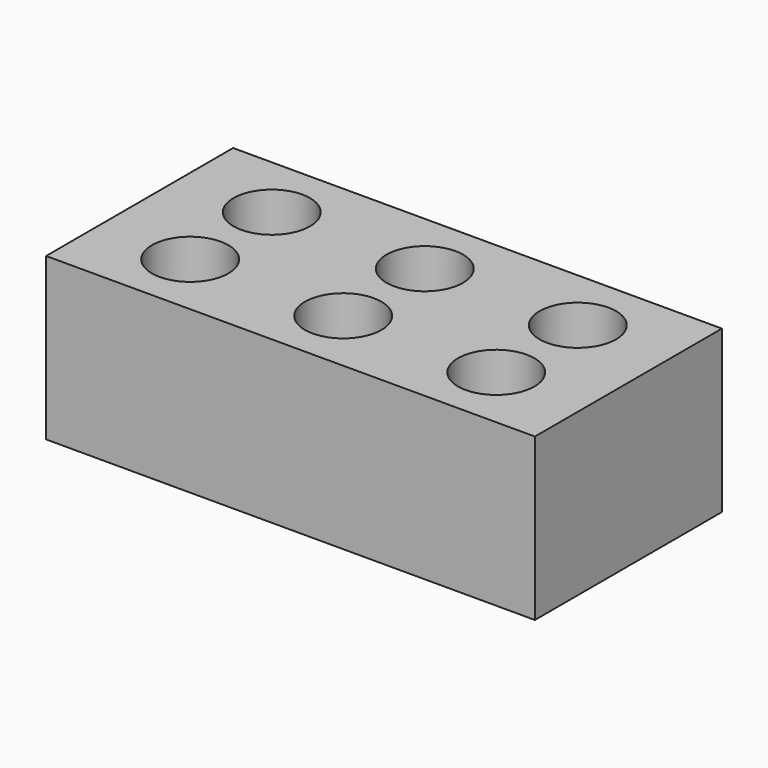
from build123d import *

# Parameters (mm, degrees)
CYLINDER002_R     = 18
CYLINDER002_DEPTH = 76
CYLINDER003_R     = 18
CYLINDER003_DEPTH = 76
CYLINDER004_R     = 18
CYLINDER004_DEPTH = 76
CYLINDER005_R     = 18
CYLINDER005_DEPTH = 76
CYLINDER_R        = 18
CYLINDER_DEPTH    = 76
CYLINDER001_R     = 18
CYLINDER001_DEPTH = 76
BOX_W             = 230
BOX_H             = 110
BOX_DEPTH         = 76


with BuildPart() as cilindro002:
    # Cylinder002 → Cylinder002 (new body)
    with BuildSketch(Plane(origin=(43, 31, 0), x_dir=(1, 0, 0), z_dir=(0, 0, 1))):
        Circle(CYLINDER002_R)
    extrude(amount=CYLINDER002_DEPTH)


with BuildPart() as fusion001:
    # Cylinder003 → Cylinder003 (new body)
    with BuildSketch(Plane(origin=(43, 79, 0), x_dir=(1, 0, 0), z_dir=(0, 0, 1))):
        Circle(CYLINDER003_R)
    extrude(amount=CYLINDER003_DEPTH)

    # Fusion001: union Cilindro002
    add(cilindro002.part)


with BuildPart() as fusion001_1:
    # Fusion001 placement: moved
    add(fusion001.part.moved(Location((72, 0, 0))))


with BuildPart() as cilindro004:
    # Cylinder004 → Cylinder004 (new body)
    with BuildSketch(Plane(origin=(43, 31, 0), x_dir=(1, 0, 0), z_dir=(0, 0, 1))):
        Circle(CYLINDER004_R)
    extrude(amount=CYLINDER004_DEPTH)


with BuildPart() as fusion002:
    # Cylinder005 → Cylinder005 (new body)
    with BuildSketch(Plane(origin=(43, 79, 0), x_dir=(1, 0, 0), z_dir=(0, 0, 1))):
        Circle(CYLINDER005_R)
    extrude(amount=CYLINDER005_DEPTH)

    # Fusion002: union Cilindro004
    add(cilindro004.part)


with BuildPart() as fusion002_1:
    # Fusion002 placement: moved
    add(fusion002.part.moved(Location((144, 0, 0))))


with BuildPart() as cilindro:
    # Cylinder → Cylinder (new body)
    with BuildSketch(Plane(origin=(43, 31, 0), x_dir=(1, 0, 0), z_dir=(0, 0, 1))):
        Circle(CYLINDER_R)
    extrude(amount=CYLINDER_DEPTH)


with BuildPart() as fusion:
    # Cylinder001 → Cylinder001 (new body)
    with BuildSketch(Plane(origin=(43, 79, 0), x_dir=(1, 0, 0), z_dir=(0, 0, 1))):
        Circle(CYLINDER001_R)
    extrude(amount=CYLINDER001_DEPTH)

    # Fusion: union Cilindro
    add(cilindro.part)


with BuildPart() as cut002:
    # Box → Box (new body)
    with BuildSketch(Plane.XY):
        with Locations((115, 55)):
            Rectangle(BOX_W, BOX_H)
    extrude(amount=BOX_DEPTH)

    # Cut: cut Fusion
    add(fusion.part, mode=Mode.SUBTRACT)

    # Cut001: cut Fusion002
    add(fusion002_1.part, mode=Mode.SUBTRACT)

    # Cut002: cut Fusion001
    add(fusion001_1.part, mode=Mode.SUBTRACT)


solid = cut002.part
